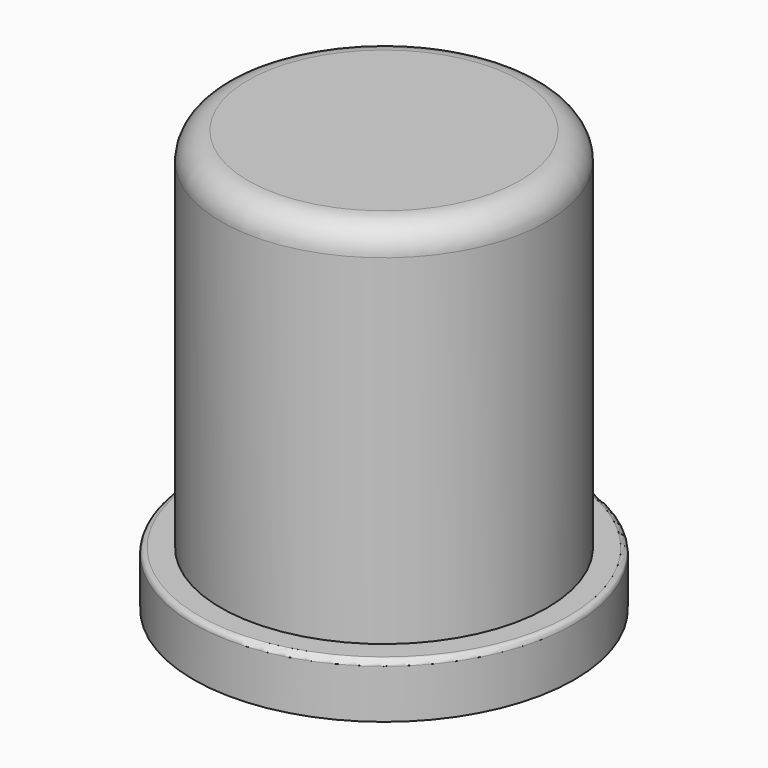
from build123d import *

# Parameters (mm, degrees)
F0_R        = 35
F1_DEPTH    = 7.5
F2_R        = 18.35
F3_DEPTH    = 25
F5_R        = 30
F5_R_2      = 20
F6_DEPTH    = 67.5
F7_R        = 5
F8_START    = 62.5
F6_FACE_R   = 20
F6_FACE_R_2 = 18.35
F8_DEPTH    = 5
F9_R        = 1
F11_R       = 18.35
F12_DEPTH   = 5
F13_R       = 35
F13_R_2     = 33.75
F14_DEPTH   = 2.5


with BuildPart() as f1:
    # F0 (on Top) → F1 (new body)
    with BuildSketch(Plane.XY):
        Circle(F0_R)
    extrude(amount=F1_DEPTH)

    # F2 (on face) → F3 (cut)
    with BuildSketch(Plane.XY.offset(7.5)):
        Circle(F2_R)
    extrude(amount=-F3_DEPTH, mode=Mode.SUBTRACT)

    # F5 (on face) → F6 (join)
    with BuildSketch(Plane.XY.offset(7.5)):
        Circle(F5_R)
        Circle(F5_R_2, mode=Mode.SUBTRACT)
    extrude(amount=F6_DEPTH)

    # F7
    f7_edges = [f1.edges().sort_by_distance(p)[0] for p in [
        (-30, 0, 75),
    ]]
    fillet(f7_edges, radius=F7_R)

    # F6_face (on face) → F8 (join)
    with BuildSketch(Plane.XY.offset(7.5).offset(F8_START)):
        Circle(F6_FACE_R)
        Circle(F6_FACE_R_2, mode=Mode.SUBTRACT)
    extrude(amount=F8_DEPTH)

    # F9
    f9_edges = [f1.edges().sort_by_distance(p)[0] for p in [
        (-35, 0, 7.5),
    ]]
    fillet(f9_edges, radius=F9_R)

    # F11 (on offset) → F12 (join)
    with BuildSketch(Plane.XY.offset(75)):
        Circle(F11_R)
    extrude(amount=-F12_DEPTH)

    # F13 (on face) → F14 (join)
    with BuildSketch(Plane.XY):
        Circle(F13_R)
        Circle(F13_R_2, mode=Mode.SUBTRACT)
    extrude(amount=-F14_DEPTH)


solid = f1.part
